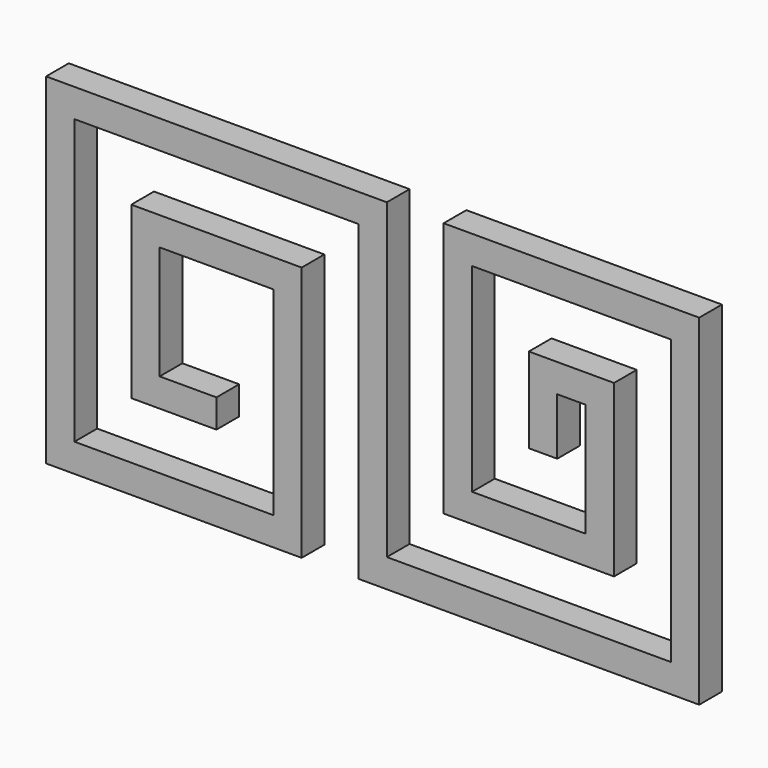
from build123d import *

# Parameters (mm, degrees)
F0_W     = 5
F0_H     = 20
F0_H_2   = 5
F0_W_2   = 35
F0_W_3   = 20
F0_W_4   = 10
F0_H_3   = 10
F0_W_5   = 50
F0_H_4   = 35
F0_H_5   = 50
F1_DEPTH = 5


with BuildPart() as f1:
    # F0 (on Front) → F1 (new body)
    with BuildSketch(Plane.XZ):
        with Locations((-103.680966, 3.431537)):
            Rectangle(F0_W, F0_H)
        with Locations((-23.680966, 3.431537)):
            Rectangle(F0_W, F0_H)
        with Locations((-28.680966, 15.931537)):
            Rectangle(F0_W, F0_H_2)
        with Locations((-98.680966, -24.068463)):
            Rectangle(F0_W_2, F0_H_2)
        with Locations((-36.180966, -9.068463)):
            Rectangle(F0_W_3, F0_H_2)
        with Locations((-96.180966, -9.068463)):
            Rectangle(F0_W_4, F0_H_2)
        with Locations((-33.680966, 8.431537)):
            Rectangle(F0_W, F0_H_3)
        with Locations((-28.680966, 30.931537)):
            Rectangle(F0_W_2, F0_H_2)
        with Locations((-91.180966, 30.931537)):
            Rectangle(F0_W_5, F0_H_2)
        with Locations((-48.680966, 10.931537)):
            Rectangle(F0_W, F0_H_4)
        with Locations((-91.180966, 15.931537)):
            Rectangle(F0_W_3, F0_H_2)
        with Locations((-36.180966, -24.068463)):
            Rectangle(F0_W_5, F0_H_2)
        with Locations((-118.680966, 3.431537)):
            Rectangle(F0_W, F0_H_5)
        with Locations((-8.680966, 3.431537)):
            Rectangle(F0_W, F0_H_5)
        with Locations((-78.680966, -4.068463)):
            Rectangle(F0_W, F0_H_4)
        with Locations((-33.680966, 15.931537)):
            Rectangle(F0_W, F0_H_2)
        with Locations((-63.680966, 3.431537)):
            Rectangle(F0_W, F0_H_5)
        with Locations((-23.680966, 15.931537)):
            Rectangle(F0_W, F0_H_2)
        with Locations((-48.680966, -9.068463)):
            Rectangle(F0_W, F0_H_2)
        with Locations((-8.680966, 30.931537)):
            Rectangle(F0_W, F0_H_2)
        with Locations((-23.680966, -9.068463)):
            Rectangle(F0_W, F0_H_2)
        with Locations((-103.680966, -9.068463)):
            Rectangle(F0_W, F0_H_2)
        with Locations((-103.680966, 15.931537)):
            Rectangle(F0_W, F0_H_2)
        with Locations((-78.680966, 15.931537)):
            Rectangle(F0_W, F0_H_2)
        with Locations((-118.680966, 30.931537)):
            Rectangle(F0_W, F0_H_2)
        with Locations((-118.680966, -24.068463)):
            Rectangle(F0_W, F0_H_2)
        with Locations((-8.680966, -24.068463)):
            Rectangle(F0_W, F0_H_2)
        with Locations((-48.680966, 30.931537)):
            Rectangle(F0_W, F0_H_2)
        with Locations((-63.680966, 30.931537)):
            Rectangle(F0_W, F0_H_2)
        with Locations((-78.680966, -24.068463)):
            Rectangle(F0_W, F0_H_2)
        with Locations((-63.680966, -24.068463)):
            Rectangle(F0_W, F0_H_2)
    extrude(amount=F1_DEPTH)


solid = f1.part
